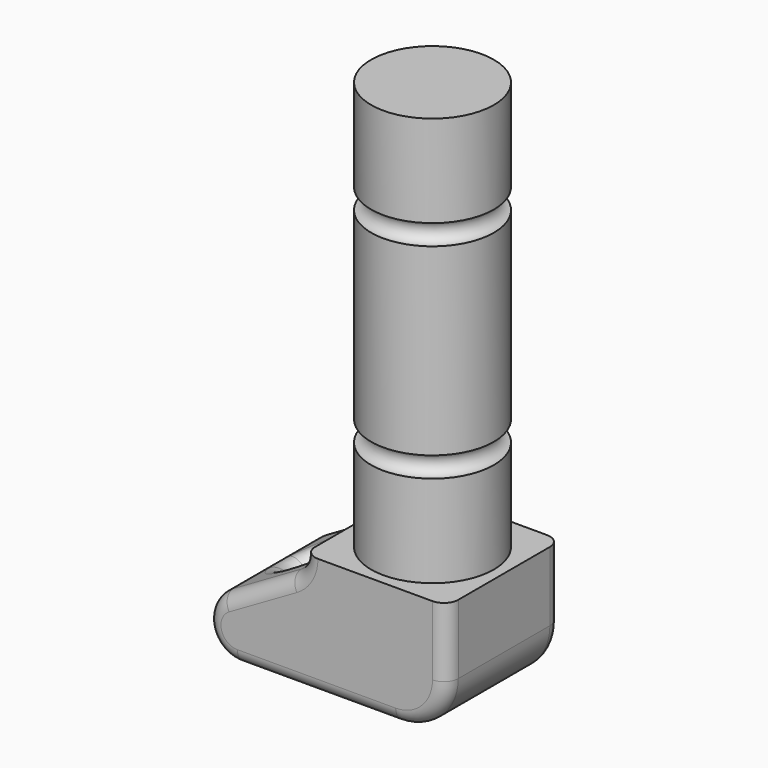
from build123d import *

# Parameters (mm, degrees)
SKETCH_R     = 3
PAD_DEPTH    = 20
SKETCH001_R  = 0.5
PAD001_DEPTH = 3.5
SKETCH003_R  = 1.5
POCKET_DEPTH = 5.891675
SKETCH004_R  = 0.5
FILLET_R     = 0.7


with BuildPart() as part:
    # Sketch → Pad (new body)
    with BuildSketch(Plane.XY):
        Circle(SKETCH_R)
    extrude(amount=PAD_DEPTH)

    # Sketch001 → Groove (revolve, cut)
    with BuildSketch(Plane.XZ):
        with Locations((3, 5)):
            Circle(SKETCH001_R)
    revolve(axis=Axis((0, 0, 0), (0, 0, 1)), mode=Mode.SUBTRACT)

    # Sketch002 → Pad001 (join, symmetric)
    with BuildSketch(Plane.XZ):
        with BuildLine():
            Line((3.5, 0), (3.5, -3.390675))
            ThreePointArc((1, -5.890675), (2.767767, -5.158442), (3.5, -3.390675))
            Line((1, -5.890675), (-6.744405, -5.890675))
            ThreePointArc((-7.494405, -3.091637), (-8.193294, -4.778904), (-6.744405, -5.890675))
            Line((-7.494405, -3.091637), (-4.180234, -1.1782))
            ThreePointArc((-4.180234, -1.1782), (-3.682268, -0.680234), (-3.5, 0))
            Line((-3.5, 0), (3.5, 0))
        make_face()
    extrude(amount=PAD001_DEPTH, both=True)

    # Sketch003 → Pocket (cut, through all)
    with BuildSketch(Plane.XY):
        with Locations((-5.035269, 0)):
            Circle(SKETCH003_R)
    extrude(amount=-POCKET_DEPTH, mode=Mode.SUBTRACT)

    # Sketch004 → Groove001 (revolve, cut)
    with BuildSketch(Plane.XZ):
        with Locations((3, 15)):
            Circle(SKETCH004_R)
    revolve(axis=Axis((0, 0, 0), (0, 0, 1)), mode=Mode.SUBTRACT)

    # Fillet
    fillet_edges = [part.edges().sort_by_distance(p)[0] for p in [
        (-5.837319, -3.5, -2.134918),
        (-3.682268, -3.5, -0.680234),
        (-8.193294, -3.5, -4.778904),
        (-2.872203, -3.5, -5.890675),
        (2.767767, -3.5, -5.158442),
        (3.5, -3.5, -1.695338),
        (-6.535269, -1e-06, -2.53788),
        (-3.708684, 0.700124, -0.724063),
        (-3.708684, -0.700124, -0.724063),
        (-6.535269, 0, -5.890675),
        (-3.682268, 3.5, -0.680234),
        (-5.837319, 3.5, -2.134918),
        (-8.193294, 3.5, -4.778904),
        (-2.872203, 3.5, -5.890675),
        (2.767767, 3.5, -5.158442),
        (3.5, 3.5, -1.695338),
    ]]
    fillet(fillet_edges, radius=FILLET_R)


solid = part.part
